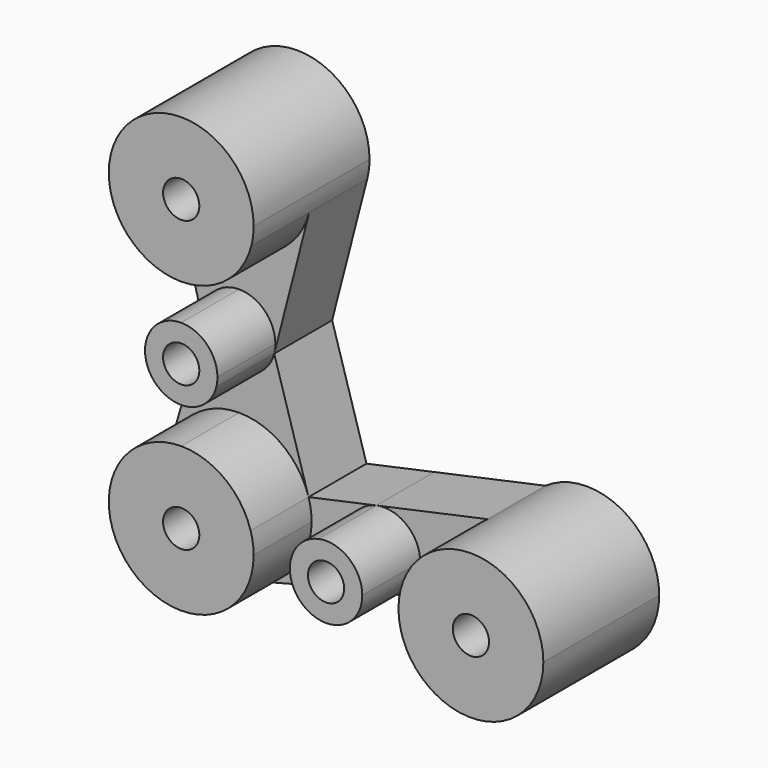
from build123d import *

# Parameters (mm, degrees)
F1_DEPTH = 50.8
F2_DEPTH = 25.4
F3_D     = 12.7
F3_2_D   = 12.7
F3_3_D   = 12.7
F3_4_D   = 12.7
F3_5_D   = 12.7


with BuildPart() as f1:
    # F0 (on Front) → F1 (new body)
    with BuildSketch(Plane.XZ):
        with BuildLine():
            ThreePointArc((-140.0981609707, 8.8290543904), (-124.543901104, 14.1485912484), (-115.5047167223, 27.8790543904))
            ThreePointArc((-115.5047167223, 27.8790543904), (-114.9006066855, 31.0285453614), (-114.6981609707, 34.2290543904))
            ThreePointArc((-114.6981609707, 34.2290543904), (-143.2986699997, 59.4266086756), (-164.6916052191, 27.8790543904))
            ThreePointArc((-164.6916052191, 27.8790543904), (-155.6524208374, 14.1485912484), (-140.0981609707, 8.8290543904))
        make_face()
    extrude(amount=F1_DEPTH)

    # F3 (through all)
    with Locations(Plane(origin=(0, 0, 0), x_dir=(1, 0, 0), z_dir=(0, 1, 0))):
        with Locations((-140.0981609707, -34.2290543904), (-140.0981609707, 16.5709456096), (-140.0981609707, 67.3709456096), (-89.2981609707, 67.3709456096), (-38.4981609707, 67.3709456096)):
            Hole(F3_D / 2)


with BuildPart() as f1b:
    # F0 (on Front) → F1, piece 2 (new body)
    with BuildSketch(Plane.XZ):
        with BuildLine():
            Line((-140.0981609707, -16.5709456096), (-140.0981609707, -29.2709456096))
            ThreePointArc((-140.0981609707, -29.2709456096), (-132.3210310373, -26.6111771806), (-127.8014388465, -19.7459456096))
            ThreePointArc((-127.8014388465, -19.7459456096), (-127.4993838281, -18.1712001241), (-127.3981609707, -16.5709456096))
            ThreePointArc((-127.3981609707, -16.5709456096), (-131.1179048496, -7.5906894885), (-140.0981609707, -3.8709456096))
            Line((-140.0981609707, -3.8709456096), (-140.0981609707, -16.5709456096))
        make_face()
        with BuildLine():
            ThreePointArc((-152.3948830949, -19.7459456096), (-147.875290904, -26.6111771806), (-140.0981609707, -29.2709456096))
            Line((-140.0981609707, -29.2709456096), (-140.0981609707, -16.5709456096))
            Line((-140.0981609707, -16.5709456096), (-140.0981609707, -3.8709456096))
            ThreePointArc((-140.0981609707, -3.8709456096), (-150.1383925417, -8.7938156762), (-152.3948830949, -19.7459456096))
        make_face()
    extrude(amount=F1_DEPTH)

    # F3#2 (through all)
    with Locations(Plane(origin=(0, 0, 0), x_dir=(1, 0, 0), z_dir=(0, 1, 0))):
        with Locations((-140.0981609707, -34.2290543904), (-140.0981609707, 16.5709456096), (-140.0981609707, 67.3709456096), (-89.2981609707, 67.3709456096), (-38.4981609707, 67.3709456096)):
            Hole(F3_2_D / 2)


with BuildPart() as f1c:
    # F0 (on Front) → F1, piece 3 (new body)
    with BuildSketch(Plane.XZ):
        with BuildLine():
            Line((-114.6981609707, -67.3709456096), (-140.0981609707, -67.3709456096))
            Line((-140.0981609707, -67.3709456096), (-140.0981609707, -41.9709456096))
            ThreePointArc((-140.0981609707, -41.9709456096), (-155.2754549353, -47.0040669112), (-164.4378542892, -60.1087607345))
            ThreePointArc((-164.4378542892, -60.1087607345), (-158.3903052719, -84.9935860719), (-133.7481609707, -91.964389858))
            ThreePointArc((-133.7481609707, -91.964389858), (-120.0176978286, -82.9252054762), (-114.6981609707, -67.3709456096))
        make_face()
        with BuildLine():
            Line((-140.0981609707, -41.9709456096), (-140.0981609707, -67.3709456096))
            Line((-140.0981609707, -67.3709456096), (-114.6981609707, -67.3709456096))
            ThreePointArc((-114.6981609707, -67.3709456096), (-114.9646354491, -63.7013550528), (-115.7584676521, -60.1087607345))
            ThreePointArc((-115.7584676521, -60.1087607345), (-124.9208670061, -47.0040669112), (-140.0981609707, -41.9709456096))
        make_face()
    extrude(amount=F1_DEPTH)

    # F3#3 (through all)
    with Locations(Plane(origin=(0, 0, 0), x_dir=(1, 0, 0), z_dir=(0, 1, 0))):
        with Locations((-140.0981609707, -34.2290543904), (-140.0981609707, 16.5709456096), (-140.0981609707, 67.3709456096), (-89.2981609707, 67.3709456096), (-38.4981609707, 67.3709456096)):
            Hole(F3_3_D / 2)


with BuildPart() as f1d:
    # F0 (on Front) → F1, piece 4 (new body)
    with BuildSketch(Plane.XZ):
        with BuildLine():
            ThreePointArc((-91.9871427928, -54.9588798363), (-99.1835054043, -59.3978680714), (-101.9981609707, -67.3709456096))
            Line((-101.9981609707, -67.3709456096), (-89.2981609707, -67.3709456096))
            Line((-89.2981609707, -67.3709456096), (-76.5981609707, -67.3709456096))
            ThreePointArc((-76.5981609707, -67.3709456096), (-81.3250834325, -57.485601176), (-91.9871427928, -54.9588798363))
        make_face()
        with BuildLine():
            Line((-89.2981609707, -67.3709456096), (-101.9981609707, -67.3709456096))
            ThreePointArc((-101.9981609707, -67.3709456096), (-97.075290904, -77.4111771806), (-86.1231609707, -79.6676677338))
            ThreePointArc((-86.1231609707, -79.6676677338), (-79.2579293997, -75.1480755429), (-76.5981609707, -67.3709456096))
            Line((-76.5981609707, -67.3709456096), (-89.2981609707, -67.3709456096))
        make_face()
    extrude(amount=F1_DEPTH)

    # F3#4 (through all)
    with Locations(Plane(origin=(0, 0, 0), x_dir=(1, 0, 0), z_dir=(0, 1, 0))):
        with Locations((-140.0981609707, -34.2290543904), (-140.0981609707, 16.5709456096), (-140.0981609707, 67.3709456096), (-89.2981609707, 67.3709456096), (-38.4981609707, 67.3709456096)):
            Hole(F3_4_D / 2)


with BuildPart() as f1e:
    # F0 (on Front) → F1, piece 5 (new body)
    with BuildSketch(Plane.XZ):
        with BuildLine():
            ThreePointArc((-13.0981609707, -67.3709456096), (-26.7277465819, -44.8627838651), (-52.9892905073, -46.5102849117))
            ThreePointArc((-52.9892905073, -46.5102849117), (-61.0063227152, -55.6005312207), (-63.8981609707, -67.3709456096))
            ThreePointArc((-63.8981609707, -67.3709456096), (-58.865039669, -82.5482395741), (-45.7603458457, -91.7106389281))
            ThreePointArc((-45.7603458457, -91.7106389281), (-23.3208670061, -87.7378243079), (-13.0981609707, -67.3709456096))
        make_face()
    extrude(amount=F1_DEPTH)

    # F3#5 (through all)
    with Locations(Plane(origin=(0, 0, 0), x_dir=(1, 0, 0), z_dir=(0, 1, 0))):
        with Locations((-140.0981609707, -34.2290543904), (-140.0981609707, 16.5709456096), (-140.0981609707, 67.3709456096), (-89.2981609707, 67.3709456096), (-38.4981609707, 67.3709456096)):
            Hole(F3_5_D / 2)


with BuildPart() as f2:
    # F0 (on Front) → F2 (new body)
    with BuildSketch(Plane.XZ):
        with BuildLine():
            Line((-164.6916052191, 27.8790543904), (-152.3948830949, -19.7459456096))
            ThreePointArc((-152.3948830949, -19.7459456096), (-150.1383925417, -8.7938156762), (-140.0981609707, -3.8709456096))
            Line((-140.0981609707, -3.8709456096), (-140.0981609707, 8.8290543904))
            ThreePointArc((-140.0981609707, 8.8290543904), (-155.6524208374, 14.1485912484), (-164.6916052191, 27.8790543904))
        make_face()
        with BuildLine():
            ThreePointArc((-127.3981609707, -16.5709456096), (-127.4993838281, -18.1712001241), (-127.8014388465, -19.7459456096))
            Line((-127.8014388465, -19.7459456096), (-115.5047167223, 27.8790543904))
            ThreePointArc((-115.5047167223, 27.8790543904), (-124.543901104, 14.1485912484), (-140.0981609707, 8.8290543904))
            Line((-140.0981609707, 8.8290543904), (-140.0981609707, -3.8709456096))
            ThreePointArc((-140.0981609707, -3.8709456096), (-131.1179048496, -7.5906894885), (-127.3981609707, -16.5709456096))
        make_face()
    extrude(amount=F2_DEPTH)


with BuildPart() as f2b:
    # F0 (on Front) → F2, piece 2 (new body)
    with BuildSketch(Plane.XZ):
        with BuildLine():
            Line((-140.0981609707, -29.2709456096), (-140.0981609707, -41.9709456096))
            ThreePointArc((-140.0981609707, -41.9709456096), (-124.9208670061, -47.0040669112), (-115.7584676521, -60.1087607345))
            Line((-115.7584676521, -60.1087607345), (-127.8014388465, -19.7459456096))
            ThreePointArc((-127.8014388465, -19.7459456096), (-132.3210310373, -26.6111771806), (-140.0981609707, -29.2709456096))
        make_face()
        with BuildLine():
            ThreePointArc((-164.4378542892, -60.1087607345), (-155.2754549353, -47.0040669112), (-140.0981609707, -41.9709456096))
            Line((-140.0981609707, -41.9709456096), (-140.0981609707, -29.2709456096))
            ThreePointArc((-140.0981609707, -29.2709456096), (-147.875290904, -26.6111771806), (-152.3948830949, -19.7459456096))
            Line((-152.3948830949, -19.7459456096), (-164.4378542892, -60.1087607345))
        make_face()
    extrude(amount=F2_DEPTH)


with BuildPart() as f2c:
    # F0 (on Front) → F2, piece 3 (new body)
    with BuildSketch(Plane.XZ):
        with BuildLine():
            Line((-52.9892905073, -46.5102849117), (-91.9871427928, -54.9588798363))
            ThreePointArc((-91.9871427928, -54.9588798363), (-81.3250834325, -57.485601176), (-76.5981609707, -67.3709456096))
            Line((-76.5981609707, -67.3709456096), (-63.8981609707, -67.3709456096))
            ThreePointArc((-63.8981609707, -67.3709456096), (-61.0063227152, -55.6005312207), (-52.9892905073, -46.5102849117))
        make_face()
        with BuildLine():
            ThreePointArc((-76.5981609707, -67.3709456096), (-79.2579293997, -75.1480755429), (-86.1231609707, -79.6676677338))
            Line((-86.1231609707, -79.6676677338), (-45.7603458457, -91.7106389281))
            ThreePointArc((-45.7603458457, -91.7106389281), (-58.865039669, -82.5482395741), (-63.8981609707, -67.3709456096))
            Line((-63.8981609707, -67.3709456096), (-76.5981609707, -67.3709456096))
        make_face()
    extrude(amount=F2_DEPTH)


with BuildPart() as f2d:
    # F0 (on Front) → F2, piece 4 (new body)
    with BuildSketch(Plane.XZ):
        with BuildLine():
            Line((-101.9981609707, -67.3709456096), (-114.6981609707, -67.3709456096))
            ThreePointArc((-114.6981609707, -67.3709456096), (-120.0176978286, -82.9252054762), (-133.7481609707, -91.964389858))
            Line((-133.7481609707, -91.964389858), (-86.1231609707, -79.6676677338))
            ThreePointArc((-86.1231609707, -79.6676677338), (-97.075290904, -77.4111771806), (-101.9981609707, -67.3709456096))
        make_face()
        with BuildLine():
            ThreePointArc((-115.7584676521, -60.1087607345), (-114.9646354491, -63.7013550528), (-114.6981609707, -67.3709456096))
            Line((-114.6981609707, -67.3709456096), (-101.9981609707, -67.3709456096))
            ThreePointArc((-101.9981609707, -67.3709456096), (-99.1835054043, -59.3978680714), (-91.9871427928, -54.9588798363))
            Line((-91.9871427928, -54.9588798363), (-115.7584676521, -60.1087607345))
        make_face()
    extrude(amount=F2_DEPTH)


solid = Compound([f1.part, f1b.part, f1c.part, f1d.part, f1e.part, f2.part, f2b.part, f2c.part, f2d.part])
